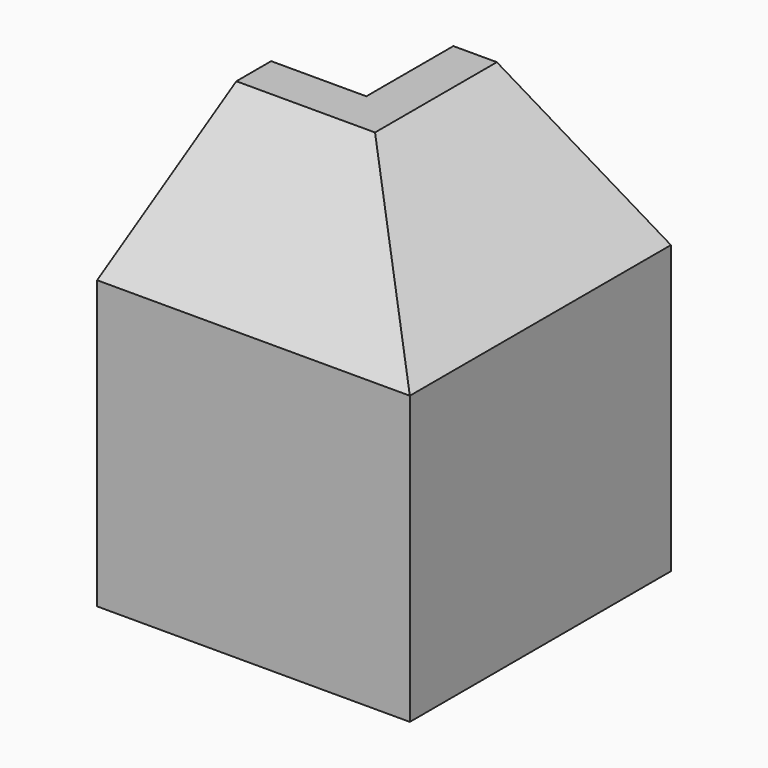
from build123d import *

# Parameters (mm, degrees)
PAD009_DEPTH    = 28.8
POCKET005_DEPTH = 24
POCKET006_DEPTH = 24
SKETCH111_W     = 1
SKETCH111_H     = 16
POCKET027_DEPTH = 30
PAD132_DEPTH    = 24
PAD133_DEPTH    = 23
POCKET054_DEPTH = 30
POCKET055_DEPTH = 26


with BuildPart() as part:
    # Sketch014 (on Face52 of Binder005) → Pad009 (new body)
    with BuildSketch(Plane.XY.offset(-28.8)):
        Polygon((127.8, 0), (127.8, 8), (143.8, 8), (143.8, -16), (119.8, -16), (119.8, 0), align=None)
    extrude(amount=PAD009_DEPTH)

    # Sketch015 (on Face5 of Pad009) → Pocket005 (cut)
    with BuildSketch(Plane(origin=(119.8, 0, 0), x_dir=(0, -1, 0), z_dir=(-1, 0, 0))):
        Polygon((16, -9.6), (0, 0), (16, 0), align=None)
    extrude(amount=-POCKET005_DEPTH, mode=Mode.SUBTRACT)

    # Sketch016 (on Face3 of Pocket005) → Pocket006 (cut)
    with BuildSketch(Plane(origin=(0, 8, 0), x_dir=(-1, 0, 0), z_dir=(0, 1, 0))):
        Polygon((-143.8, -9.6), (-127.8, 0), (-143.8, 0), align=None)
    extrude(amount=-POCKET006_DEPTH, mode=Mode.SUBTRACT)

    # Sketch111 (on Face4 of Pocket006) → Pocket027 (cut)
    with BuildSketch(Plane(origin=(0, 0, -28.8), x_dir=(1, 0, 0), z_dir=(0, 0, -1))):
        with Locations((120.3, 8)):
            Rectangle(SKETCH111_W, SKETCH111_H)
    extrude(amount=-POCKET027_DEPTH, mode=Mode.SUBTRACT)

    # Sketch132 (on Face3 of Pocket027) → Pad132 (join)
    with BuildSketch(Plane(origin=(0, 8, 0), x_dir=(-1, 0, 0), z_dir=(0, 1, 0))):
        Polygon((-127.8, 0), (-131, 0), (-143.8, -7.68), (-143.8, -10.88), (-131, -3.2), (-127.8, -3.2), align=None)
    extrude(amount=-PAD132_DEPTH)

    # Sketch133 → Pad133 (join)
    with BuildSketch(Plane(origin=(120.8, 0, 0), x_dir=(0, -1, 0), z_dir=(-1, 0, 0))):
        Polygon((0, 0), (0, -3.2), (3.2, -3.2), (16, -10.88), (16, -7.68), (3.2, 0), align=None)
    extrude(amount=-PAD133_DEPTH)

    # Sketch168 (on Face3 of Pad133) → Pocket054 (cut)
    with BuildSketch(Plane(origin=(0, 8, 0), x_dir=(-1, 0, 0), z_dir=(0, 1, 0))):
        Polygon((-131, 0), (-143.8, -7.68), (-143.8, 0), align=None)
    extrude(amount=-POCKET054_DEPTH, mode=Mode.SUBTRACT)

    # Sketch169 (on Face6 of Pocket054) → Pocket055 (cut)
    with BuildSketch(Plane(origin=(120.8, 0, 0), x_dir=(0, -1, 0), z_dir=(-1, 0, 0))):
        Polygon((3.2, 0), (16, -7.68), (16, 0), align=None)
    extrude(amount=-POCKET055_DEPTH, mode=Mode.SUBTRACT)


solid = part.part
